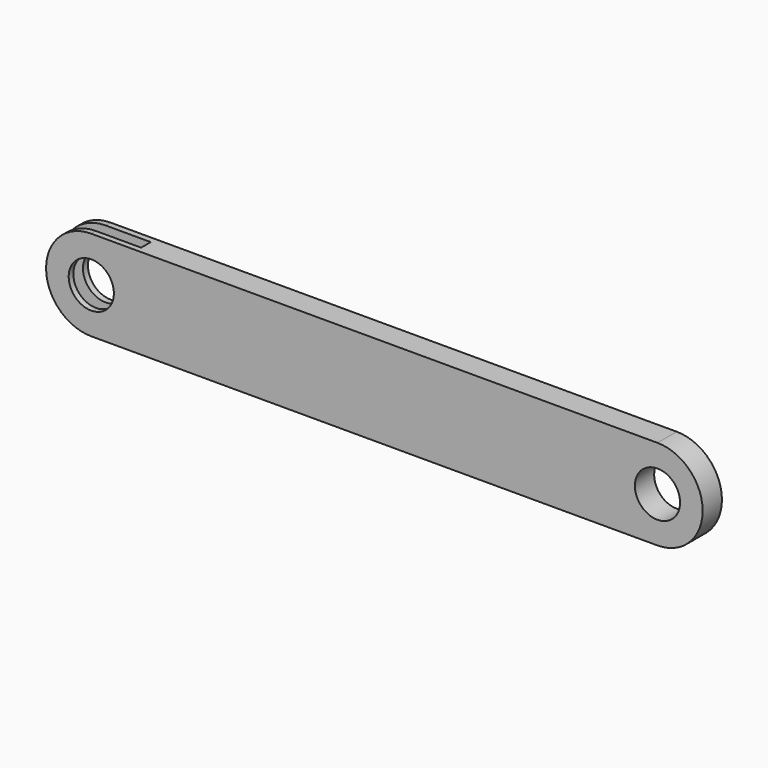
from build123d import *

# Parameters (mm, degrees)
F1_DEPTH = 8
F2_D     = 15
F3_D     = 15
F5_W     = 30
F5_H     = 4
F6_DEPTH = 30.001


with BuildPart() as f1:
    # F0 (on Front) → F1 (new body)
    with BuildSketch(Plane.XZ):
        with BuildLine():
            Line((188, 15), (0, 15))
            ThreePointArc((0, 15), (-15, 0), (0, -15))
            Line((0, -15), (188, -15))
            ThreePointArc((188, -15), (203, 0), (188, 15))
        make_face()
    extrude(amount=F1_DEPTH)

    # F2 (through all)
    with Locations(Plane(origin=(0, 0, 0), x_dir=(1, 0, 0), z_dir=(0, 1, 0))):
        with Locations((0, 0)):
            Hole(F2_D / 2)

    # F3 (through all)
    with Locations(Plane(origin=(0, 0, 0), x_dir=(1, 0, 0), z_dir=(0, 1, 0))):
        with Locations((188, 0)):
            Hole(F3_D / 2)

    # F5 (on offset) → F6 (cut, through all)
    with BuildSketch(Plane.XY.offset(15)):
        with Locations((0, -4.0625976841)):
            Rectangle(F5_W, F5_H)
    extrude(amount=-F6_DEPTH, mode=Mode.SUBTRACT)


solid = f1.part
